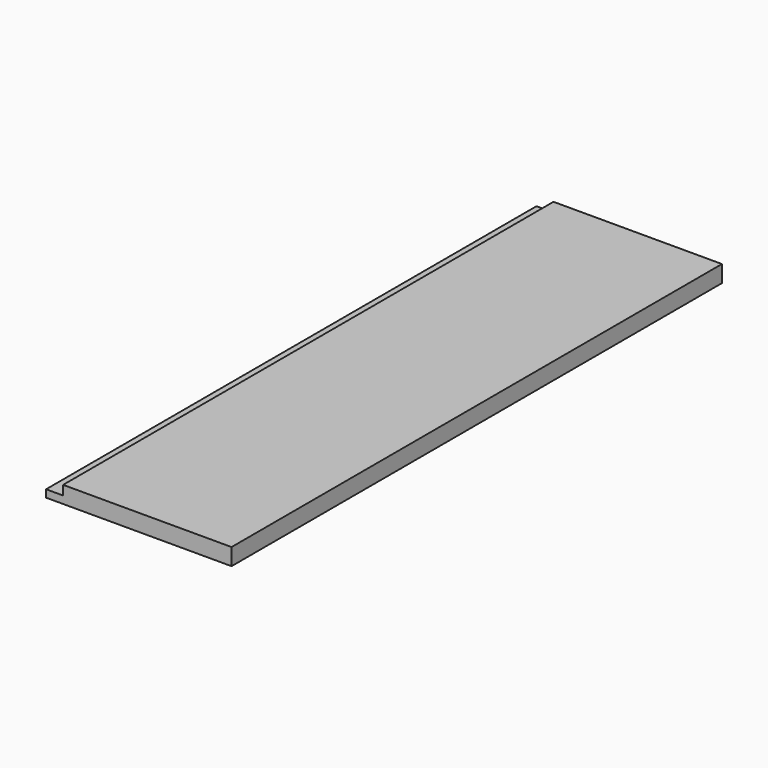
from build123d import *

# Parameters (mm, degrees)
F1_DEPTH = 5.0038
F2_W     = 5.0563439727
F2_H     = 181.9316893816
F3_DEPTH = 2.794


with BuildPart() as f1:
    # F0 (on Top) → F1 (new body)
    with BuildSketch(Plane.XY):
        Polygon((-77.932164073, 94.5535302162), (-77.932164073, 88.2035302162), (-77.932164073, -81.0281591654), (-77.932164073, -87.3781591654), (-22.8869300336, -87.3781591654), (-22.8869300336, 94.5535302162), align=None)
    extrude(amount=F1_DEPTH)

    # F2 (on face) → F3 (cut)
    with BuildSketch(Plane.XY.offset(5.0038)):
        with Locations((-75.4039920866, 3.5876855254)):
            Rectangle(F2_W, F2_H)
    extrude(amount=-F3_DEPTH, mode=Mode.SUBTRACT)


solid = f1.part
